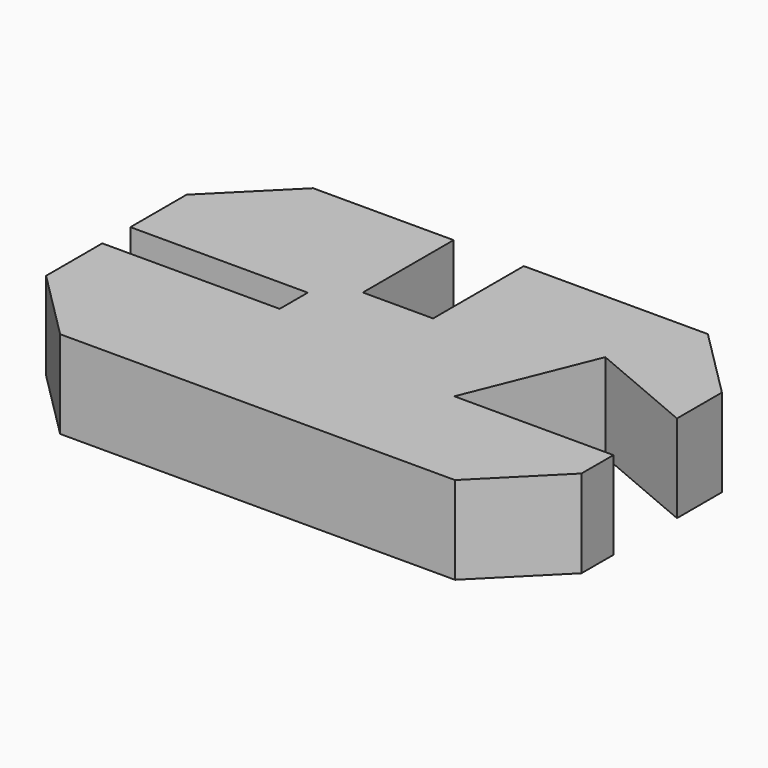
from build123d import *

# Parameters (mm, degrees)
F1_DEPTH = 25


with BuildPart() as f1:
    # F0 (on Top) → F1 (new body)
    with BuildSketch(Plane.XY):
        Polygon((-73.094928, -39.116276), (-53.083806, -59.127398), (59.316194, -59.127398), (79.305072, -39.094057), (79.327315, -27.728315), (34.027315, -27.728315), (48.449669, 7.968263), (79.327315, -5.13852), (79.327315, 10.86148), (59.316194, 30.872602), (6.916194, 30.872602), (6.916194, -1.405154), (-13.083806, -1.405154), (-13.083806, 30.894846), (-53.083806, 30.894846), (-73.094928, 10.883724), (-73.094928, -9.116276), (-22.594928, -9.116276), (-22.594928, -19.116276), (-73.094928, -19.116276), align=None)
    extrude(amount=F1_DEPTH)


solid = f1.part
